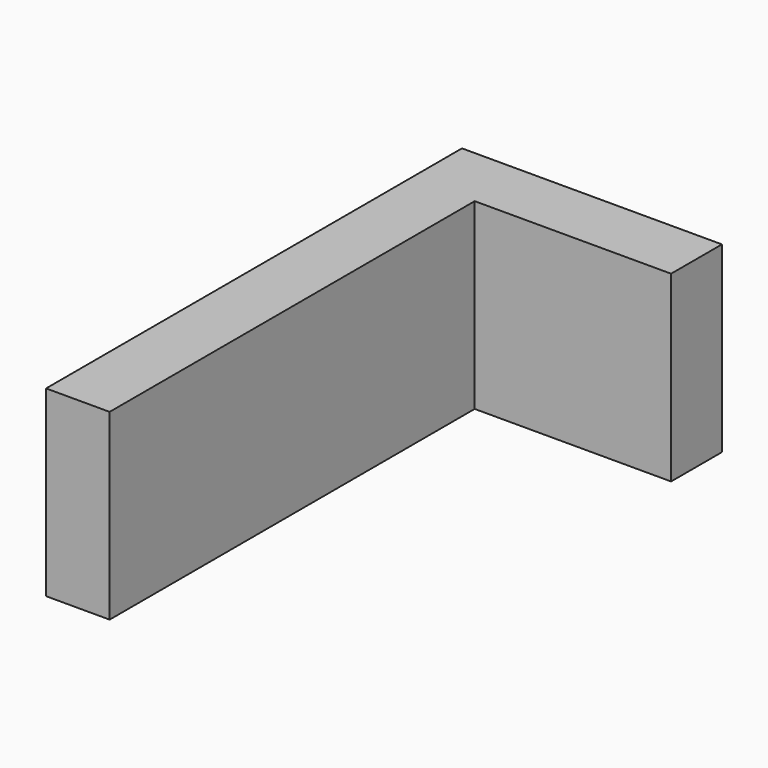
from build123d import *

# Parameters (mm, degrees)
BOX021003010008_W     = 45
BOX021003010008_H     = 11
BOX021003010008_DEPTH = 31.6667
BOX021003010007_W     = 11
BOX021003010007_H     = 90
BOX021003010007_DEPTH = 31.6667


with BuildPart() as obj1:
    # Box021003010008 → Box021003010008 (new body)
    with BuildSketch(Plane(origin=(5, 194, 55.3333), x_dir=(1, 0, 0), z_dir=(0, 0, 1))):
        with Locations((22.5, 5.5)):
            Rectangle(BOX021003010008_W, BOX021003010008_H)
    extrude(amount=BOX021003010008_DEPTH)


with BuildPart() as obj2:
    # Box021003010007 → Box021003010007 (new body)
    with BuildSketch(Plane(origin=(5, 115, 55.3333), x_dir=(1, 0, 0), z_dir=(0, 0, 1))):
        with Locations((5.5, 45)):
            Rectangle(BOX021003010007_W, BOX021003010007_H)
    extrude(amount=BOX021003010007_DEPTH)

    # Fusion008: union obj1
    add(obj1.part)


solid = obj2.part
